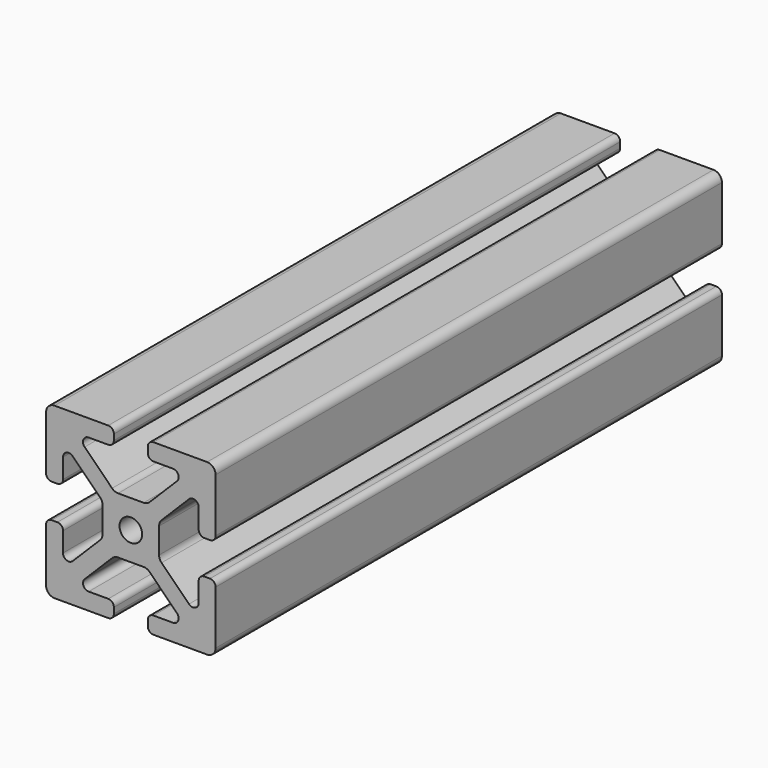
from build123d import *

# Parameters (mm, degrees)
F0_R     = 2
F1_DEPTH = 112


with BuildPart() as f1:
    # F0 (on Front) → F1 (new body)
    with BuildSketch(Plane.XZ):
        with BuildLine():
            ThreePointArc((15, 13.5), (14.56066, 14.56066), (13.5, 15))
            Line((13.5, 15), (4, 15))
            ThreePointArc((4, 15), (3.292893, 14.707107), (3, 14))
            Line((3, 14), (3, 13))
            ThreePointArc((3, 13), (3.292893, 12.292893), (4, 12))
            Line((4, 12), (7.464466, 12))
            ThreePointArc((7.464466, 12), (8.388346, 11.382683), (8.171573, 10.292893))
            Line((8.171573, 10.292893), (3.318019, 5.43934))
            ThreePointArc((3.318019, 5.43934), (2.831384, 5.114181), (2.257359, 5))
            Line((2.257359, 5), (-2.257359, 5))
            ThreePointArc((-2.257359, 5), (-2.831384, 5.114181), (-3.318019, 5.43934))
            Line((-3.318019, 5.43934), (-8.171573, 10.292893))
            ThreePointArc((-8.171573, 10.292893), (-8.388346, 11.382683), (-7.464466, 12))
            Line((-7.464466, 12), (-4, 12))
            ThreePointArc((-4, 12), (-3.292893, 12.292893), (-3, 13))
            Line((-3, 13), (-3, 14))
            ThreePointArc((-3, 14), (-3.292893, 14.707107), (-4, 15))
            Line((-4, 15), (-13.5, 15))
            ThreePointArc((-13.5, 15), (-14.56066, 14.56066), (-15, 13.5))
            Line((-15, 13.5), (-15, 4))
            ThreePointArc((-15, 4), (-14.707107, 3.292893), (-14, 3))
            Line((-14, 3), (-13, 3))
            ThreePointArc((-13, 3), (-12.292893, 3.292893), (-12, 4))
            Line((-12, 4), (-12, 7.464466))
            ThreePointArc((-12, 7.464466), (-11.382683, 8.388346), (-10.292893, 8.171573))
            Line((-10.292893, 8.171573), (-5.43934, 3.318019))
            ThreePointArc((-5.43934, 3.318019), (-5.114181, 2.831384), (-5, 2.257359))
            Line((-5, 2.257359), (-5, -2.257359))
            ThreePointArc((-5, -2.257359), (-5.114181, -2.831384), (-5.43934, -3.318019))
            Line((-5.43934, -3.318019), (-10.292893, -8.171573))
            ThreePointArc((-10.292893, -8.171573), (-11.382683, -8.388346), (-12, -7.464466))
            Line((-12, -7.464466), (-12, -4))
            ThreePointArc((-12, -4), (-12.292893, -3.292893), (-13, -3))
            Line((-13, -3), (-14, -3))
            ThreePointArc((-14, -3), (-14.707107, -3.292893), (-15, -4))
            Line((-15, -4), (-15, -13.5))
            ThreePointArc((-15, -13.5), (-14.56066, -14.56066), (-13.5, -15))
            Line((-13.5, -15), (-4, -15))
            ThreePointArc((-4, -15), (-3.292893, -14.707107), (-3, -14))
            Line((-3, -14), (-3, -13))
            ThreePointArc((-3, -13), (-3.292893, -12.292893), (-4, -12))
            Line((-4, -12), (-7.464466, -12))
            ThreePointArc((-7.464466, -12), (-8.388346, -11.382683), (-8.171573, -10.292893))
            Line((-8.171573, -10.292893), (-3.318019, -5.43934))
            ThreePointArc((-3.318019, -5.43934), (-2.831384, -5.114181), (-2.257359, -5))
            Line((-2.257359, -5), (2.257359, -5))
            ThreePointArc((2.257359, -5), (2.831384, -5.114181), (3.318019, -5.43934))
            Line((3.318019, -5.43934), (8.171573, -10.292893))
            ThreePointArc((8.171573, -10.292893), (8.388346, -11.382683), (7.464466, -12))
            Line((7.464466, -12), (4, -12))
            ThreePointArc((4, -12), (3.292893, -12.292893), (3, -13))
            Line((3, -13), (3, -14))
            ThreePointArc((3, -14), (3.292893, -14.707107), (4, -15))
            Line((4, -15), (13.5, -15))
            ThreePointArc((13.5, -15), (14.56066, -14.56066), (15, -13.5))
            Line((15, -13.5), (15, -4))
            ThreePointArc((15, -4), (14.707107, -3.292893), (14, -3))
            Line((14, -3), (13, -3))
            ThreePointArc((13, -3), (12.292893, -3.292893), (12, -4))
            Line((12, -4), (12, -7.464466))
            ThreePointArc((12, -7.464466), (11.382683, -8.388346), (10.292893, -8.171573))
            Line((10.292893, -8.171573), (5.43934, -3.318019))
            ThreePointArc((5.43934, -3.318019), (5.114181, -2.831384), (5, -2.257359))
            Line((5, -2.257359), (5, 2.257359))
            ThreePointArc((5, 2.257359), (5.114181, 2.831384), (5.43934, 3.318019))
            Line((5.43934, 3.318019), (10.292893, 8.171573))
            ThreePointArc((10.292893, 8.171573), (11.382683, 8.388346), (12, 7.464466))
            Line((12, 7.464466), (12, 4))
            ThreePointArc((12, 4), (12.292893, 3.292893), (13, 3))
            Line((13, 3), (14, 3))
            ThreePointArc((14, 3), (14.707107, 3.292893), (15, 4))
            Line((15, 4), (15, 13.5))
        make_face()
        Circle(F0_R, mode=Mode.SUBTRACT)
    extrude(amount=-F1_DEPTH)


solid = f1.part
